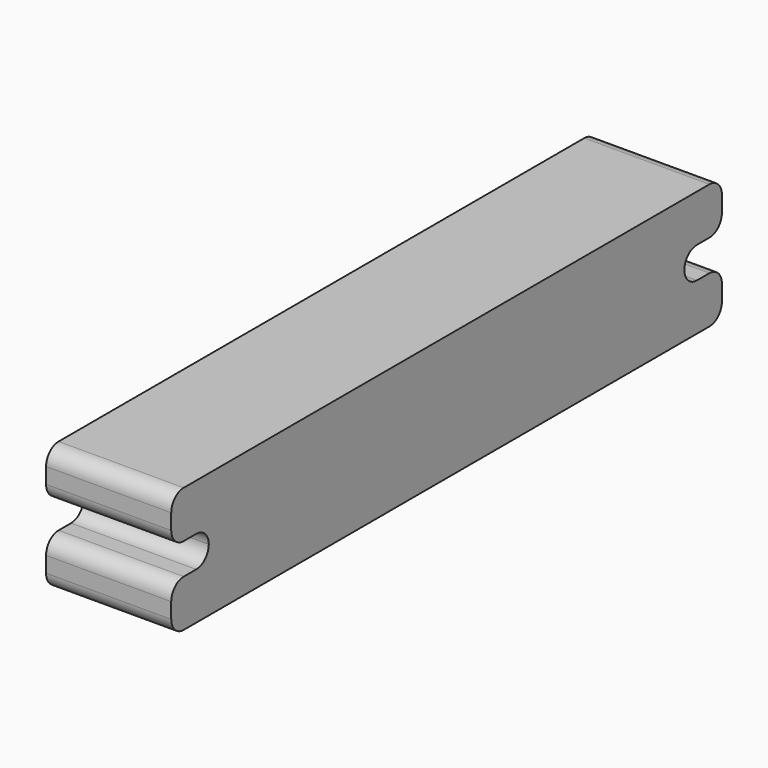
from build123d import *

# Parameters (mm, degrees)
F1_DEPTH = 25.4


with BuildPart() as f1:
    # F0 (on Right) → F1 (new body)
    with BuildSketch(Plane.YZ):
        with BuildLine():
            Line((66.675, 12.7), (-66.675, 12.7))
            ThreePointArc((-66.675, 12.7), (-68.920064, 11.770064), (-69.85, 9.525))
            Line((-69.85, 9.525), (-69.85, 6.35))
            ThreePointArc((-69.85, 6.35), (-68.920064, 4.104936), (-66.675, 3.175))
            Line((-66.675, 3.175), (-63.5, 3.175))
            ThreePointArc((-63.5, 3.175), (-61.254936, 2.245064), (-60.325, 0))
            ThreePointArc((-60.325, 0), (-61.254936, -2.245064), (-63.5, -3.175))
            Line((-63.5, -3.175), (-66.675, -3.175))
            ThreePointArc((-66.675, -3.175), (-68.920064, -4.104936), (-69.85, -6.35))
            Line((-69.85, -6.35), (-69.85, -9.525))
            ThreePointArc((-69.85, -9.525), (-68.920064, -11.770064), (-66.675, -12.7))
            Line((-66.675, -12.7), (66.675, -12.7))
            ThreePointArc((66.675, -12.7), (68.920064, -11.770064), (69.85, -9.525))
            Line((69.85, -9.525), (69.85, -6.35))
            ThreePointArc((69.85, -6.35), (68.920064, -4.104936), (66.675, -3.175))
            Line((66.675, -3.175), (63.5, -3.175))
            ThreePointArc((63.5, -3.175), (61.254936, -2.245064), (60.325, 0))
            ThreePointArc((60.325, 0), (61.254936, 2.245064), (63.5, 3.175))
            Line((63.5, 3.175), (66.675, 3.175))
            ThreePointArc((66.675, 3.175), (68.920064, 4.104936), (69.85, 6.35))
            Line((69.85, 6.35), (69.85, 9.525))
            ThreePointArc((69.85, 9.525), (68.920064, 11.770064), (66.675, 12.7))
        make_face()
    extrude(amount=F1_DEPTH)


solid = f1.part
